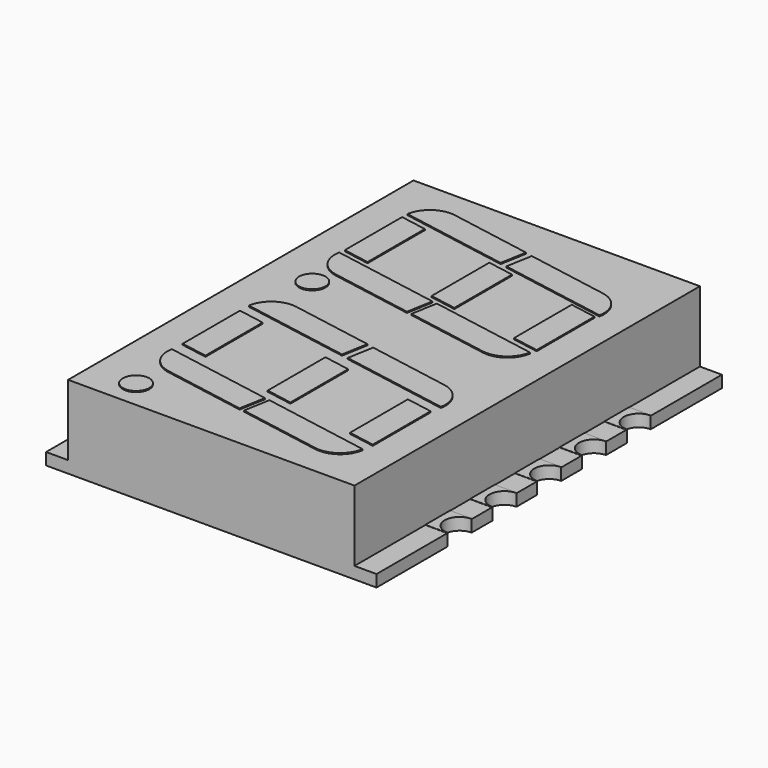
from build123d import *

# Parameters (mm, degrees)
BOX050_W               = 2
BOX050_H               = 2
BOX050_DEPTH           = 1
BOX050_PLACEMENT_ANGLE = -10
BOX049_W               = 2
BOX049_H               = 2
BOX049_DEPTH           = 1
BOX049_PLACEMENT_ANGLE = -10
BOX048_W               = 1.2
BOX048_H               = 3.5
BOX048_DEPTH           = 1
BOX040_W               = 2
BOX040_H               = 2
BOX040_DEPTH           = 1
BOX040_PLACEMENT_ANGLE = -10
BOX039_W               = 2
BOX039_H               = 2
BOX039_DEPTH           = 1
BOX039_PLACEMENT_ANGLE = -10
BOX038_W               = 1.2
BOX038_H               = 3.5
BOX038_DEPTH           = 1
BOX056_W               = 2
BOX056_H               = 2
BOX056_DEPTH           = 1
BOX056_PLACEMENT_ANGLE = -10
BOX055_W               = 2
BOX055_H               = 2
BOX055_DEPTH           = 1
BOX055_PLACEMENT_ANGLE = -10
BOX054_W               = 1.2
BOX054_H               = 3.5
BOX054_DEPTH           = 1
BOX052_W               = 2
BOX052_H               = 2
BOX052_DEPTH           = 1
BOX052_PLACEMENT_ANGLE = -10
BOX053_W               = 2
BOX053_H               = 2
BOX053_DEPTH           = 1
BOX053_PLACEMENT_ANGLE = -10
BOX051_W               = 1.2
BOX051_H               = 3.5
BOX051_DEPTH           = 1
BOX_W                  = 1
BOX_H                  = 20
BOX_DEPTH              = 3.28
BOX047_W               = 1
BOX047_H               = 20
BOX047_DEPTH           = 3.28
PAD_DEPTH              = 3.75
BOX032_W               = 0.8
BOX032_H               = 1.5
BOX032_DEPTH           = 0.6
CYLINDER019_R          = 0.68
CYLINDER019_DEPTH      = 0.6
CYLINDER018_R          = 0.7
CYLINDER018_DEPTH      = 0.5
BOX031_W               = 1
BOX031_H               = 1.4
BOX031_DEPTH           = 0.05
CUT019_PLACEMENT_ANGLE = 180
BOX043_W               = 2
BOX043_H               = 2
BOX043_DEPTH           = 1
BOX043_PLACEMENT_ANGLE = -10
BOX042_W               = 2
BOX042_H               = 2
BOX042_DEPTH           = 1
BOX042_PLACEMENT_ANGLE = -10
BOX041_W               = 1.2
BOX041_H               = 3.5
BOX041_DEPTH           = 1
BOX045_W               = 2
BOX045_H               = 2
BOX045_DEPTH           = 1
BOX045_PLACEMENT_ANGLE = -10
BOX046_W               = 2
BOX046_H               = 2
BOX046_DEPTH           = 1
BOX046_PLACEMENT_ANGLE = -10
BOX044_W               = 1.2
BOX044_H               = 3.5
BOX044_DEPTH           = 1
BOX030_W               = 0.8
BOX030_H               = 1.5
BOX030_DEPTH           = 0.6
CYLINDER017_R          = 0.68
CYLINDER017_DEPTH      = 0.6
CYLINDER016_R          = 0.7
CYLINDER016_DEPTH      = 0.5
BOX029_W               = 1
BOX029_H               = 1.4
BOX029_DEPTH           = 0.05
CUT017_PLACEMENT_ANGLE = 180
BOX057_W               = 5
BOX057_H               = 1.2
BOX057_DEPTH           = 1
BOX057_PLACEMENT_ANGLE = -10
FILLET004_R            = 1.18
BOX037_W               = 5
BOX037_H               = 1.2
BOX037_DEPTH           = 1
BOX037_PLACEMENT_ANGLE = -10
FILLET003_R            = 1.18
BOX058_W               = 5
BOX058_H               = 1.2
BOX058_DEPTH           = 1
BOX058_PLACEMENT_ANGLE = -10
FILLET005_R            = 1.18
BOX036_W               = 5
BOX036_H               = 1.2
BOX036_DEPTH           = 1
BOX036_PLACEMENT_ANGLE = -10
FILLET001_R            = 1.18
BOX034_W               = 5
BOX034_H               = 1.2
BOX034_DEPTH           = 1
BOX034_PLACEMENT_ANGLE = -10
FILLET002_R            = 1.18
BOX059_W               = 5
BOX059_H               = 1.2
BOX059_DEPTH           = 1
BOX059_PLACEMENT_ANGLE = -10
FILLET006_R            = 1.18
BOX060_W               = 5
BOX060_H               = 1.2
BOX060_DEPTH           = 1
BOX060_PLACEMENT_ANGLE = -10
FILLET007_R            = 1.18
BOX035_W               = 5
BOX035_H               = 1.2
BOX035_DEPTH           = 1
BOX035_PLACEMENT_ANGLE = -10
FILLET_R               = 1.18
BOX028_W               = 0.8
BOX028_H               = 1.5
BOX028_DEPTH           = 0.6
CYLINDER015_R          = 0.68
CYLINDER015_DEPTH      = 0.6
CYLINDER014_R          = 0.7
CYLINDER014_DEPTH      = 0.5
BOX027_W               = 1
BOX027_H               = 1.4
BOX027_DEPTH           = 0.05
CUT015_PLACEMENT_ANGLE = 180
BOX026_W               = 0.8
BOX026_H               = 1.5
BOX026_DEPTH           = 0.6
CYLINDER013_R          = 0.68
CYLINDER013_DEPTH      = 0.6
CYLINDER012_R          = 0.7
CYLINDER012_DEPTH      = 0.5
BOX025_W               = 1
BOX025_H               = 1.4
BOX025_DEPTH           = 0.05
CUT013_PLACEMENT_ANGLE = 180
BOX015_W               = 0.8
BOX015_H               = 1.5
BOX015_DEPTH           = 0.6
CYLINDER009_R          = 0.68
CYLINDER009_DEPTH      = 0.6
CYLINDER008_R          = 0.7
CYLINDER008_DEPTH      = 0.5
BOX014_W               = 1
BOX014_H               = 1.4
BOX014_DEPTH           = 0.05
BOX024_W               = 0.8
BOX024_H               = 1.5
BOX024_DEPTH           = 0.6
CYLINDER011_R          = 0.68
CYLINDER011_DEPTH      = 0.6
CYLINDER010_R          = 0.7
CYLINDER010_DEPTH      = 0.5
BOX023_W               = 1
BOX023_H               = 1.4
BOX023_DEPTH           = 0.05
CUT011_PLACEMENT_ANGLE = 180
CYLINDER020_R          = 0.6
CYLINDER020_DEPTH      = 1
BOX013_W               = 0.8
BOX013_H               = 1.5
BOX013_DEPTH           = 0.6
CYLINDER007_R          = 0.68
CYLINDER007_DEPTH      = 0.6
CYLINDER006_R          = 0.7
CYLINDER006_DEPTH      = 0.5
BOX012_W               = 1
BOX012_H               = 1.4
BOX012_DEPTH           = 0.05
BOX009_W               = 0.8
BOX009_H               = 1.5
BOX009_DEPTH           = 0.6
CYLINDER003_R          = 0.68
CYLINDER003_DEPTH      = 0.6
CYLINDER002_R          = 0.7
CYLINDER002_DEPTH      = 0.5
BOX008_W               = 1
BOX008_H               = 1.4
BOX008_DEPTH           = 0.05
BOX011_W               = 0.8
BOX011_H               = 1.5
BOX011_DEPTH           = 0.6
CYLINDER005_R          = 0.68
CYLINDER005_DEPTH      = 0.6
CYLINDER004_R          = 0.7
CYLINDER004_DEPTH      = 0.5
BOX010_W               = 1
BOX010_H               = 1.4
BOX010_DEPTH           = 0.05
CYLINDER021_R          = 0.6
CYLINDER021_DEPTH      = 1
BOX007_W               = 0.8
BOX007_H               = 1.5
BOX007_DEPTH           = 0.6
CYLINDER001_R          = 0.68
CYLINDER001_DEPTH      = 0.6
CYLINDER_R             = 0.7
CYLINDER_DEPTH         = 0.5
BOX006_W               = 1
BOX006_H               = 1.4
BOX006_DEPTH           = 0.05


with BuildPart() as kub051:
    # Box050 → Box050 (new body)
    with BuildSketch(Plane.XY):
        with Locations((1, 1)):
            Rectangle(BOX050_W, BOX050_H)
    extrude(amount=BOX050_DEPTH)


with BuildPart() as kub051_1:
    # Box050 placement: moved
    add(kub051.part.moved(Location((-1.62, -8.05, 3.3))).rotate(Axis((-1.62, -8.05, 3.3), (0, 0, 1)), BOX050_PLACEMENT_ANGLE))


with BuildPart() as kub050:
    # Box049 → Box049 (new body)
    with BuildSketch(Plane.XY):
        with Locations((1, 1)):
            Rectangle(BOX049_W, BOX049_H)
    extrude(amount=BOX049_DEPTH)


with BuildPart() as kub050_1:
    # Box049 placement: moved
    add(kub050.part.moved(Location((-0.7, -2.9, 3.3))).rotate(Axis((-0.7, -2.9, 3.3), (0, 0, 1)), BOX049_PLACEMENT_ANGLE))


with BuildPart() as cut038:
    # Box048 → Box048 (new body)
    with BuildSketch(Plane(origin=(-0.7, -6.4, 3.3), x_dir=(1, 0, 0), z_dir=(0, 0, 1))):
        with Locations((0.6, 1.75)):
            Rectangle(BOX048_W, BOX048_H)
    extrude(amount=BOX048_DEPTH)

    # Cut037: cut Kub050
    add(kub050_1.part, mode=Mode.SUBTRACT)

    # Cut038: cut Kub051
    add(kub051_1.part, mode=Mode.SUBTRACT)


with BuildPart() as cut038_1:
    # Cut038 placement: moved
    add(cut038.part.moved(Location((12.1, 3.6, -0.5))))


with BuildPart() as kub040:
    # Box040 → Box040 (new body)
    with BuildSketch(Plane.XY):
        with Locations((1, 1)):
            Rectangle(BOX040_W, BOX040_H)
    extrude(amount=BOX040_DEPTH)


with BuildPart() as kub040_1:
    # Box040 placement: moved
    add(kub040.part.moved(Location((-4.62, -8.02, 3.3))).rotate(Axis((-4.62, -8.02, 3.3), (0, 0, 1)), BOX040_PLACEMENT_ANGLE))


with BuildPart() as kub039:
    # Box039 → Box039 (new body)
    with BuildSketch(Plane.XY):
        with Locations((1, 1)):
            Rectangle(BOX039_W, BOX039_H)
    extrude(amount=BOX039_DEPTH)


with BuildPart() as kub039_1:
    # Box039 placement: moved
    add(kub039.part.moved(Location((-4, -2.85, 3.3))).rotate(Axis((-4, -2.85, 3.3), (0, 0, 1)), BOX039_PLACEMENT_ANGLE))


with BuildPart() as cut036:
    # Box038 → Box038 (new body)
    with BuildSketch(Plane(origin=(-3.7, -6.4, 3.3), x_dir=(1, 0, 0), z_dir=(0, 0, 1))):
        with Locations((0.6, 1.75)):
            Rectangle(BOX038_W, BOX038_H)
    extrude(amount=BOX038_DEPTH)

    # Cut035: cut Kub039
    add(kub039_1.part, mode=Mode.SUBTRACT)

    # Cut036: cut Kub040
    add(kub040_1.part, mode=Mode.SUBTRACT)


with BuildPart() as cut036_1:
    # Cut036 placement: moved
    add(cut036.part.moved(Location((6.2, -4.1, -0.5))))


with BuildPart() as kub057:
    # Box056 → Box056 (new body)
    with BuildSketch(Plane.XY):
        with Locations((1, 1)):
            Rectangle(BOX056_W, BOX056_H)
    extrude(amount=BOX056_DEPTH)


with BuildPart() as kub057_1:
    # Box056 placement: moved
    add(kub057.part.moved(Location((-4.62, -8.02, 3.3))).rotate(Axis((-4.62, -8.02, 3.3), (0, 0, 1)), BOX056_PLACEMENT_ANGLE))


with BuildPart() as kub056:
    # Box055 → Box055 (new body)
    with BuildSketch(Plane.XY):
        with Locations((1, 1)):
            Rectangle(BOX055_W, BOX055_H)
    extrude(amount=BOX055_DEPTH)


with BuildPart() as kub056_1:
    # Box055 placement: moved
    add(kub056.part.moved(Location((-4, -2.85, 3.3))).rotate(Axis((-4, -2.85, 3.3), (0, 0, 1)), BOX055_PLACEMENT_ANGLE))


with BuildPart() as cut042:
    # Box054 → Box054 (new body)
    with BuildSketch(Plane(origin=(-3.7, -6.4, 3.3), x_dir=(1, 0, 0), z_dir=(0, 0, 1))):
        with Locations((0.6, 1.75)):
            Rectangle(BOX054_W, BOX054_H)
    extrude(amount=BOX054_DEPTH)

    # Cut041: cut Kub056
    add(kub056_1.part, mode=Mode.SUBTRACT)

    # Cut042: cut Kub057
    add(kub057_1.part, mode=Mode.SUBTRACT)


with BuildPart() as cut042_1:
    # Cut042 placement: moved
    add(cut042.part.moved(Location((6.2, 5.1, -0.5))))


with BuildPart() as kub053:
    # Box052 → Box052 (new body)
    with BuildSketch(Plane.XY):
        with Locations((1, 1)):
            Rectangle(BOX052_W, BOX052_H)
    extrude(amount=BOX052_DEPTH)


with BuildPart() as kub053_1:
    # Box052 placement: moved
    add(kub053.part.moved(Location((-8, -2.85, 3.3))).rotate(Axis((-8, -2.85, 3.3), (0, 0, 1)), BOX052_PLACEMENT_ANGLE))


with BuildPart() as kub054:
    # Box053 → Box053 (new body)
    with BuildSketch(Plane.XY):
        with Locations((1, 1)):
            Rectangle(BOX053_W, BOX053_H)
    extrude(amount=BOX053_DEPTH)


with BuildPart() as kub054_1:
    # Box053 placement: moved
    add(kub054.part.moved(Location((-8.6, -8.05, 3.3))).rotate(Axis((-8.6, -8.05, 3.3), (0, 0, 1)), BOX053_PLACEMENT_ANGLE))


with BuildPart() as cut040:
    # Box051 → Box051 (new body)
    with BuildSketch(Plane(origin=(-7.7, -6.4, 3.3), x_dir=(1, 0, 0), z_dir=(0, 0, 1))):
        with Locations((0.6, 1.75)):
            Rectangle(BOX051_W, BOX051_H)
    extrude(amount=BOX051_DEPTH)

    # Cut039: cut Kub054
    add(kub054_1.part, mode=Mode.SUBTRACT)

    # Cut040: cut Kub053
    add(kub053_1.part, mode=Mode.SUBTRACT)


with BuildPart() as cut040_1:
    # Cut040 placement: moved
    add(cut040.part.moved(Location((14.8, 4.3, -0.5))))


with BuildPart() as kub047:
    # Box → Box (new body)
    with BuildSketch(Plane(origin=(0, -15, 0.54), x_dir=(1, 0, 0), z_dir=(0, 0, 1))):
        with Locations((0.5, 10)):
            Rectangle(BOX_W, BOX_H)
    extrude(amount=BOX_DEPTH)


with BuildPart() as kub048:
    # Box047 → Box047 (new body)
    with BuildSketch(Plane(origin=(14, -15, 0.54), x_dir=(1, 0, 0), z_dir=(0, 0, 1))):
        with Locations((0.5, 10)):
            Rectangle(BOX047_W, BOX047_H)
    extrude(amount=BOX047_DEPTH)


with BuildPart() as cut026:
    # Sketch → Pad (new body)
    with BuildSketch(Plane.XY):
        with BuildLine():
            Line((0, 4.72), (15, 4.72))
            Line((15, 4.72), (15, 0.7))
            ThreePointArc((15, 0.7), (14.3, 0), (15, -0.7))
            Line((15, -0.7), (15, -1.84))
            ThreePointArc((15, -1.84), (14.3, -2.54), (15, -3.24))
            Line((15, -3.24), (15, -4.38))
            ThreePointArc((15, -4.38), (14.3, -5.08), (15, -5.78))
            Line((15, -5.78), (15, -6.92))
            ThreePointArc((15, -6.92), (14.3, -7.62), (15, -8.32))
            Line((15, -8.32), (15, -9.46))
            ThreePointArc((15, -9.46), (14.3, -10.16), (15, -10.86))
            Line((15, -10.86), (15, -14.88))
            Line((0, -14.88), (15, -14.88))
            Line((0, -10.86), (0, -14.88))
            ThreePointArc((0, -10.86), (0.7, -10.16), (0, -9.46))
            Line((0, -8.32), (0, -9.46))
            ThreePointArc((0, -8.32), (0.7, -7.62), (0, -6.92))
            Line((0, -5.78), (0, -6.92))
            ThreePointArc((0, -5.78), (0.7, -5.08), (0, -4.38))
            Line((0, -3.24), (0, -4.38))
            ThreePointArc((0, -3.24), (0.7, -2.54), (0, -1.84))
            Line((0, -0.7), (0, -1.84))
            ThreePointArc((0, -0.7), (0.7, 0), (0, 0.7))
            Line((0, 4.72), (0, 0.7))
        make_face()
    extrude(amount=PAD_DEPTH)

    # Cut025: cut Kub048
    add(kub048.part, mode=Mode.SUBTRACT)

    # Cut026: cut Kub047
    add(kub047.part, mode=Mode.SUBTRACT)


with BuildPart() as kub032:
    # Box032 → Box032 (new body)
    with BuildSketch(Plane(origin=(-0.8, -0.75, 0), x_dir=(1, 0, 0), z_dir=(0, 0, 1))):
        with Locations((0.4, 0.75)):
            Rectangle(BOX032_W, BOX032_H)
    extrude(amount=BOX032_DEPTH)


with BuildPart() as cylinder019:
    # Cylinder019 → Cylinder019 (new body)
    with BuildSketch(Plane.XY):
        Circle(CYLINDER019_R)
    extrude(amount=CYLINDER019_DEPTH)


with BuildPart() as cylinder018:
    # Cylinder018 → Cylinder018 (new body)
    with BuildSketch(Plane.XY):
        Circle(CYLINDER018_R)
    extrude(amount=CYLINDER018_DEPTH)


with BuildPart() as cut019:
    # Box031 → Box031 (new body)
    with BuildSketch(Plane(origin=(0, -0.7, 0.5), x_dir=(1, 0, 0), z_dir=(0, 0, 1))):
        with Locations((0.5, 0.7)):
            Rectangle(BOX031_W, BOX031_H)
    extrude(amount=BOX031_DEPTH)

    # Fusion009: union Cylinder018
    add(cylinder018.part)

    # Cut018: cut Cylinder019
    add(cylinder019.part, mode=Mode.SUBTRACT)

    # Cut019: cut Kub032
    add(kub032.part, mode=Mode.SUBTRACT)


with BuildPart() as cut019_1:
    # Cut019 placement: moved
    add(cut019.part.moved(Location((15, -10.16, 0))).rotate(Axis((15, -10.16, 0), (0, 0, 1)), CUT019_PLACEMENT_ANGLE))


with BuildPart() as kub043:
    # Box043 → Box043 (new body)
    with BuildSketch(Plane.XY):
        with Locations((1, 1)):
            Rectangle(BOX043_W, BOX043_H)
    extrude(amount=BOX043_DEPTH)


with BuildPart() as kub043_1:
    # Box043 placement: moved
    add(kub043.part.moved(Location((-1.62, -8.05, 3.3))).rotate(Axis((-1.62, -8.05, 3.3), (0, 0, 1)), BOX043_PLACEMENT_ANGLE))


with BuildPart() as kub042:
    # Box042 → Box042 (new body)
    with BuildSketch(Plane.XY):
        with Locations((1, 1)):
            Rectangle(BOX042_W, BOX042_H)
    extrude(amount=BOX042_DEPTH)


with BuildPart() as kub042_1:
    # Box042 placement: moved
    add(kub042.part.moved(Location((-0.7, -2.9, 3.3))).rotate(Axis((-0.7, -2.9, 3.3), (0, 0, 1)), BOX042_PLACEMENT_ANGLE))


with BuildPart() as cut032:
    # Box041 → Box041 (new body)
    with BuildSketch(Plane(origin=(-0.7, -6.4, 3.3), x_dir=(1, 0, 0), z_dir=(0, 0, 1))):
        with Locations((0.6, 1.75)):
            Rectangle(BOX041_W, BOX041_H)
    extrude(amount=BOX041_DEPTH)

    # Cut031: cut Kub042
    add(kub042_1.part, mode=Mode.SUBTRACT)

    # Cut032: cut Kub043
    add(kub043_1.part, mode=Mode.SUBTRACT)


with BuildPart() as cut032_1:
    # Cut032 placement: moved
    add(cut032.part.moved(Location((12.1, -5.7, -0.5))))


with BuildPart() as kub045:
    # Box045 → Box045 (new body)
    with BuildSketch(Plane.XY):
        with Locations((1, 1)):
            Rectangle(BOX045_W, BOX045_H)
    extrude(amount=BOX045_DEPTH)


with BuildPart() as kub045_1:
    # Box045 placement: moved
    add(kub045.part.moved(Location((-8, -2.85, 3.3))).rotate(Axis((-8, -2.85, 3.3), (0, 0, 1)), BOX045_PLACEMENT_ANGLE))


with BuildPart() as kub046:
    # Box046 → Box046 (new body)
    with BuildSketch(Plane.XY):
        with Locations((1, 1)):
            Rectangle(BOX046_W, BOX046_H)
    extrude(amount=BOX046_DEPTH)


with BuildPart() as kub046_1:
    # Box046 placement: moved
    add(kub046.part.moved(Location((-8.6, -8.05, 3.3))).rotate(Axis((-8.6, -8.05, 3.3), (0, 0, 1)), BOX046_PLACEMENT_ANGLE))


with BuildPart() as cut034:
    # Box044 → Box044 (new body)
    with BuildSketch(Plane(origin=(-7.7, -6.4, 3.3), x_dir=(1, 0, 0), z_dir=(0, 0, 1))):
        with Locations((0.6, 1.75)):
            Rectangle(BOX044_W, BOX044_H)
    extrude(amount=BOX044_DEPTH)

    # Cut033: cut Kub046
    add(kub046_1.part, mode=Mode.SUBTRACT)

    # Cut034: cut Kub045
    add(kub045_1.part, mode=Mode.SUBTRACT)


with BuildPart() as cut034_1:
    # Cut034 placement: moved
    add(cut034.part.moved(Location((14.8, -5, -0.5))))


with BuildPart() as kub030:
    # Box030 → Box030 (new body)
    with BuildSketch(Plane(origin=(-0.8, -0.75, 0), x_dir=(1, 0, 0), z_dir=(0, 0, 1))):
        with Locations((0.4, 0.75)):
            Rectangle(BOX030_W, BOX030_H)
    extrude(amount=BOX030_DEPTH)


with BuildPart() as cylinder017:
    # Cylinder017 → Cylinder017 (new body)
    with BuildSketch(Plane.XY):
        Circle(CYLINDER017_R)
    extrude(amount=CYLINDER017_DEPTH)


with BuildPart() as cylinder016:
    # Cylinder016 → Cylinder016 (new body)
    with BuildSketch(Plane.XY):
        Circle(CYLINDER016_R)
    extrude(amount=CYLINDER016_DEPTH)


with BuildPart() as cut017:
    # Box029 → Box029 (new body)
    with BuildSketch(Plane(origin=(0, -0.7, 0.5), x_dir=(1, 0, 0), z_dir=(0, 0, 1))):
        with Locations((0.5, 0.7)):
            Rectangle(BOX029_W, BOX029_H)
    extrude(amount=BOX029_DEPTH)

    # Fusion008: union Cylinder016
    add(cylinder016.part)

    # Cut016: cut Cylinder017
    add(cylinder017.part, mode=Mode.SUBTRACT)

    # Cut017: cut Kub030
    add(kub030.part, mode=Mode.SUBTRACT)


with BuildPart() as cut017_1:
    # Cut017 placement: moved
    add(cut017.part.moved(Location((15, -7.62, 0))).rotate(Axis((15, -7.62, 0), (0, 0, 1)), CUT017_PLACEMENT_ANGLE))


with BuildPart() as fillet004:
    # Box057 → Box057 (new body)
    with BuildSketch(Plane.XY):
        with Locations((2.5, 0.6)):
            Rectangle(BOX057_W, BOX057_H)
    extrude(amount=BOX057_DEPTH)


with BuildPart() as fillet004_1:
    # Box057 placement: moved
    add(fillet004.part.moved(Location((7.75, -7.45, 2.8))).rotate(Axis((7.75, -7.45, 2.8), (0, 0, 1)), BOX057_PLACEMENT_ANGLE))

    # Fillet004
    fillet004_edges = [fillet004_1.edges().sort_by_distance(p)[0] for p in [
        (12.882417, -7.136472, 3.3),
    ]]
    fillet(fillet004_edges, radius=FILLET004_R)


with BuildPart() as fillet004_2:
    # Fillet004 placement: moved
    add(fillet004_1.part.moved(Location((0, 9, 0))))


with BuildPart() as fillet003:
    # Box037 → Box037 (new body)
    with BuildSketch(Plane.XY):
        with Locations((2.5, 0.6)):
            Rectangle(BOX037_W, BOX037_H)
    extrude(amount=BOX037_DEPTH)


with BuildPart() as fillet003_1:
    # Box037 placement: moved
    add(fillet003.part.moved(Location((7.4, -12.9, 2.8))).rotate(Axis((7.4, -12.9, 2.8), (0, 0, 1)), BOX037_PLACEMENT_ANGLE))

    # Fillet003
    fillet003_edges = [fillet003_1.edges().sort_by_distance(p)[0] for p in [
        (12.324039, -13.768241, 3.3),
    ]]
    fillet(fillet003_edges, radius=FILLET003_R)


with BuildPart() as fillet005:
    # Box058 → Box058 (new body)
    with BuildSketch(Plane.XY):
        with Locations((2.5, 0.6)):
            Rectangle(BOX058_W, BOX058_H)
    extrude(amount=BOX058_DEPTH)


with BuildPart() as fillet005_1:
    # Box058 placement: moved
    add(fillet005.part.moved(Location((7.4, -12.9, 2.8))).rotate(Axis((7.4, -12.9, 2.8), (0, 0, 1)), BOX058_PLACEMENT_ANGLE))

    # Fillet005
    fillet005_edges = [fillet005_1.edges().sort_by_distance(p)[0] for p in [
        (12.324039, -13.768241, 3.3),
    ]]
    fillet(fillet005_edges, radius=FILLET005_R)


with BuildPart() as fillet005_2:
    # Fillet005 placement: moved
    add(fillet005_1.part.moved(Location((0, 9.5, 0))))


with BuildPart() as fillet001:
    # Box036 → Box036 (new body)
    with BuildSketch(Plane.XY):
        with Locations((2.5, 0.6)):
            Rectangle(BOX036_W, BOX036_H)
    extrude(amount=BOX036_DEPTH)


with BuildPart() as fillet001_1:
    # Box036 placement: moved
    add(fillet001.part.moved(Location((2.3, -12, 2.8))).rotate(Axis((2.3, -12, 2.8), (0, 0, 1)), BOX036_PLACEMENT_ANGLE))

    # Fillet001
    fillet001_edges = [fillet001_1.edges().sort_by_distance(p)[0] for p in [
        (2.3, -12, 3.3),
    ]]
    fillet(fillet001_edges, radius=FILLET001_R)


with BuildPart() as fillet001_2:
    # Fillet001 placement: moved
    add(fillet001_1.part.moved(Location((-0.05, 0, 0))))


with BuildPart() as fillet002:
    # Box034 → Box034 (new body)
    with BuildSketch(Plane.XY):
        with Locations((2.5, 0.6)):
            Rectangle(BOX034_W, BOX034_H)
    extrude(amount=BOX034_DEPTH)


with BuildPart() as fillet002_1:
    # Box034 placement: moved
    add(fillet002.part.moved(Location((2.5, -6.5, 2.8))).rotate(Axis((2.5, -6.5, 2.8), (0, 0, 1)), BOX034_PLACEMENT_ANGLE))

    # Fillet002
    fillet002_edges = [fillet002_1.edges().sort_by_distance(p)[0] for p in [
        (2.708378, -5.318231, 3.3),
    ]]
    fillet(fillet002_edges, radius=FILLET002_R)


with BuildPart() as fillet006:
    # Box059 → Box059 (new body)
    with BuildSketch(Plane.XY):
        with Locations((2.5, 0.6)):
            Rectangle(BOX059_W, BOX059_H)
    extrude(amount=BOX059_DEPTH)


with BuildPart() as fillet006_1:
    # Box059 placement: moved
    add(fillet006.part.moved(Location((2.3, -12, 2.8))).rotate(Axis((2.3, -12, 2.8), (0, 0, 1)), BOX059_PLACEMENT_ANGLE))

    # Fillet006
    fillet006_edges = [fillet006_1.edges().sort_by_distance(p)[0] for p in [
        (2.3, -12, 3.3),
    ]]
    fillet(fillet006_edges, radius=FILLET006_R)


with BuildPart() as fillet006_2:
    # Fillet006 placement: moved
    add(fillet006_1.part.moved(Location((-0.05, 9.5, 0))))


with BuildPart() as fillet007:
    # Box060 → Box060 (new body)
    with BuildSketch(Plane.XY):
        with Locations((2.5, 0.6)):
            Rectangle(BOX060_W, BOX060_H)
    extrude(amount=BOX060_DEPTH)


with BuildPart() as fillet007_1:
    # Box060 placement: moved
    add(fillet007.part.moved(Location((2.5, -6.5, 2.8))).rotate(Axis((2.5, -6.5, 2.8), (0, 0, 1)), BOX060_PLACEMENT_ANGLE))

    # Fillet007
    fillet007_edges = [fillet007_1.edges().sort_by_distance(p)[0] for p in [
        (2.708378, -5.318231, 3.3),
    ]]
    fillet(fillet007_edges, radius=FILLET007_R)


with BuildPart() as fillet007_2:
    # Fillet007 placement: moved
    add(fillet007_1.part.moved(Location((0, 9, 0))))


with BuildPart() as fillet_body:
    # Box035 → Box035 (new body)
    with BuildSketch(Plane.XY):
        with Locations((2.5, 0.6)):
            Rectangle(BOX035_W, BOX035_H)
    extrude(amount=BOX035_DEPTH)


with BuildPart() as fillet_body_1:
    # Box035 placement: moved
    add(fillet_body.part.moved(Location((7.75, -7.45, 2.8))).rotate(Axis((7.75, -7.45, 2.8), (0, 0, 1)), BOX035_PLACEMENT_ANGLE))

    # Fillet
    fillet_edges = [fillet_body_1.edges().sort_by_distance(p)[0] for p in [
        (12.882417, -7.136472, 3.3),
    ]]
    fillet(fillet_edges, radius=FILLET_R)


with BuildPart() as kub028:
    # Box028 → Box028 (new body)
    with BuildSketch(Plane(origin=(-0.8, -0.75, 0), x_dir=(1, 0, 0), z_dir=(0, 0, 1))):
        with Locations((0.4, 0.75)):
            Rectangle(BOX028_W, BOX028_H)
    extrude(amount=BOX028_DEPTH)


with BuildPart() as cylinder015:
    # Cylinder015 → Cylinder015 (new body)
    with BuildSketch(Plane.XY):
        Circle(CYLINDER015_R)
    extrude(amount=CYLINDER015_DEPTH)


with BuildPart() as cylinder014:
    # Cylinder014 → Cylinder014 (new body)
    with BuildSketch(Plane.XY):
        Circle(CYLINDER014_R)
    extrude(amount=CYLINDER014_DEPTH)


with BuildPart() as cut015:
    # Box027 → Box027 (new body)
    with BuildSketch(Plane(origin=(0, -0.7, 0.5), x_dir=(1, 0, 0), z_dir=(0, 0, 1))):
        with Locations((0.5, 0.7)):
            Rectangle(BOX027_W, BOX027_H)
    extrude(amount=BOX027_DEPTH)

    # Fusion007: union Cylinder014
    add(cylinder014.part)

    # Cut014: cut Cylinder015
    add(cylinder015.part, mode=Mode.SUBTRACT)

    # Cut015: cut Kub028
    add(kub028.part, mode=Mode.SUBTRACT)


with BuildPart() as cut015_1:
    # Cut015 placement: moved
    add(cut015.part.moved(Location((15, -5.08, 0))).rotate(Axis((15, -5.08, 0), (0, 0, 1)), CUT015_PLACEMENT_ANGLE))


with BuildPart() as kub026:
    # Box026 → Box026 (new body)
    with BuildSketch(Plane(origin=(-0.8, -0.75, 0), x_dir=(1, 0, 0), z_dir=(0, 0, 1))):
        with Locations((0.4, 0.75)):
            Rectangle(BOX026_W, BOX026_H)
    extrude(amount=BOX026_DEPTH)


with BuildPart() as cylinder013:
    # Cylinder013 → Cylinder013 (new body)
    with BuildSketch(Plane.XY):
        Circle(CYLINDER013_R)
    extrude(amount=CYLINDER013_DEPTH)


with BuildPart() as cylinder012:
    # Cylinder012 → Cylinder012 (new body)
    with BuildSketch(Plane.XY):
        Circle(CYLINDER012_R)
    extrude(amount=CYLINDER012_DEPTH)


with BuildPart() as cut013:
    # Box025 → Box025 (new body)
    with BuildSketch(Plane(origin=(0, -0.7, 0.5), x_dir=(1, 0, 0), z_dir=(0, 0, 1))):
        with Locations((0.5, 0.7)):
            Rectangle(BOX025_W, BOX025_H)
    extrude(amount=BOX025_DEPTH)

    # Fusion006: union Cylinder012
    add(cylinder012.part)

    # Cut012: cut Cylinder013
    add(cylinder013.part, mode=Mode.SUBTRACT)

    # Cut013: cut Kub026
    add(kub026.part, mode=Mode.SUBTRACT)


with BuildPart() as cut013_1:
    # Cut013 placement: moved
    add(cut013.part.moved(Location((15, -2.54, 0))).rotate(Axis((15, -2.54, 0), (0, 0, 1)), CUT013_PLACEMENT_ANGLE))


with BuildPart() as kub015:
    # Box015 → Box015 (new body)
    with BuildSketch(Plane(origin=(-0.8, -0.75, 0), x_dir=(1, 0, 0), z_dir=(0, 0, 1))):
        with Locations((0.4, 0.75)):
            Rectangle(BOX015_W, BOX015_H)
    extrude(amount=BOX015_DEPTH)


with BuildPart() as cylinder009:
    # Cylinder009 → Cylinder009 (new body)
    with BuildSketch(Plane.XY):
        Circle(CYLINDER009_R)
    extrude(amount=CYLINDER009_DEPTH)


with BuildPart() as cylinder008:
    # Cylinder008 → Cylinder008 (new body)
    with BuildSketch(Plane.XY):
        Circle(CYLINDER008_R)
    extrude(amount=CYLINDER008_DEPTH)


with BuildPart() as cut009:
    # Box014 → Box014 (new body)
    with BuildSketch(Plane(origin=(0, -0.7, 0.5), x_dir=(1, 0, 0), z_dir=(0, 0, 1))):
        with Locations((0.5, 0.7)):
            Rectangle(BOX014_W, BOX014_H)
    extrude(amount=BOX014_DEPTH)

    # Fusion004: union Cylinder008
    add(cylinder008.part)

    # Cut008: cut Cylinder009
    add(cylinder009.part, mode=Mode.SUBTRACT)

    # Cut009: cut Kub015
    add(kub015.part, mode=Mode.SUBTRACT)


with BuildPart() as cut009_1:
    # Cut009 placement: moved
    add(cut009.part.moved(Location((0, -10.16, 0))))


with BuildPart() as kub024:
    # Box024 → Box024 (new body)
    with BuildSketch(Plane(origin=(-0.8, -0.75, 0), x_dir=(1, 0, 0), z_dir=(0, 0, 1))):
        with Locations((0.4, 0.75)):
            Rectangle(BOX024_W, BOX024_H)
    extrude(amount=BOX024_DEPTH)


with BuildPart() as cylinder011:
    # Cylinder011 → Cylinder011 (new body)
    with BuildSketch(Plane.XY):
        Circle(CYLINDER011_R)
    extrude(amount=CYLINDER011_DEPTH)


with BuildPart() as cylinder010:
    # Cylinder010 → Cylinder010 (new body)
    with BuildSketch(Plane.XY):
        Circle(CYLINDER010_R)
    extrude(amount=CYLINDER010_DEPTH)


with BuildPart() as cut011:
    # Box023 → Box023 (new body)
    with BuildSketch(Plane(origin=(0, -0.7, 0.5), x_dir=(1, 0, 0), z_dir=(0, 0, 1))):
        with Locations((0.5, 0.7)):
            Rectangle(BOX023_W, BOX023_H)
    extrude(amount=BOX023_DEPTH)

    # Fusion005: union Cylinder010
    add(cylinder010.part)

    # Cut010: cut Cylinder011
    add(cylinder011.part, mode=Mode.SUBTRACT)

    # Cut011: cut Kub024
    add(kub024.part, mode=Mode.SUBTRACT)


with BuildPart() as cut011_1:
    # Cut011 placement: moved
    add(cut011.part.moved(Location((15, 0, 0))).rotate(Axis((15, 0, 0), (0, 0, 1)), CUT011_PLACEMENT_ANGLE))


with BuildPart() as cylinder020:
    # Cylinder020 → Cylinder020 (new body)
    with BuildSketch(Plane(origin=(3.1, -13.65, 2.8), x_dir=(1, 0, 0), z_dir=(0, 0, 1))):
        Circle(CYLINDER020_R)
    extrude(amount=CYLINDER020_DEPTH)


with BuildPart() as kub013:
    # Box013 → Box013 (new body)
    with BuildSketch(Plane(origin=(-0.8, -0.75, 0), x_dir=(1, 0, 0), z_dir=(0, 0, 1))):
        with Locations((0.4, 0.75)):
            Rectangle(BOX013_W, BOX013_H)
    extrude(amount=BOX013_DEPTH)


with BuildPart() as cylinder007:
    # Cylinder007 → Cylinder007 (new body)
    with BuildSketch(Plane.XY):
        Circle(CYLINDER007_R)
    extrude(amount=CYLINDER007_DEPTH)


with BuildPart() as cylinder006:
    # Cylinder006 → Cylinder006 (new body)
    with BuildSketch(Plane.XY):
        Circle(CYLINDER006_R)
    extrude(amount=CYLINDER006_DEPTH)


with BuildPart() as cut007:
    # Box012 → Box012 (new body)
    with BuildSketch(Plane(origin=(0, -0.7, 0.5), x_dir=(1, 0, 0), z_dir=(0, 0, 1))):
        with Locations((0.5, 0.7)):
            Rectangle(BOX012_W, BOX012_H)
    extrude(amount=BOX012_DEPTH)

    # Fusion003: union Cylinder006
    add(cylinder006.part)

    # Cut006: cut Cylinder007
    add(cylinder007.part, mode=Mode.SUBTRACT)

    # Cut007: cut Kub013
    add(kub013.part, mode=Mode.SUBTRACT)


with BuildPart() as cut007_1:
    # Cut007 placement: moved
    add(cut007.part.moved(Location((0, -7.62, 0))))


with BuildPart() as kub009:
    # Box009 → Box009 (new body)
    with BuildSketch(Plane(origin=(-0.8, -0.75, 0), x_dir=(1, 0, 0), z_dir=(0, 0, 1))):
        with Locations((0.4, 0.75)):
            Rectangle(BOX009_W, BOX009_H)
    extrude(amount=BOX009_DEPTH)


with BuildPart() as cylinder003:
    # Cylinder003 → Cylinder003 (new body)
    with BuildSketch(Plane.XY):
        Circle(CYLINDER003_R)
    extrude(amount=CYLINDER003_DEPTH)


with BuildPart() as cylinder002:
    # Cylinder002 → Cylinder002 (new body)
    with BuildSketch(Plane.XY):
        Circle(CYLINDER002_R)
    extrude(amount=CYLINDER002_DEPTH)


with BuildPart() as cut003:
    # Box008 → Box008 (new body)
    with BuildSketch(Plane(origin=(0, -0.7, 0.5), x_dir=(1, 0, 0), z_dir=(0, 0, 1))):
        with Locations((0.5, 0.7)):
            Rectangle(BOX008_W, BOX008_H)
    extrude(amount=BOX008_DEPTH)

    # Fusion001: union Cylinder002
    add(cylinder002.part)

    # Cut002: cut Cylinder003
    add(cylinder003.part, mode=Mode.SUBTRACT)

    # Cut003: cut Kub009
    add(kub009.part, mode=Mode.SUBTRACT)


with BuildPart() as cut003_1:
    # Cut003 placement: moved
    add(cut003.part.moved(Location((0, -2.54, 0))))


with BuildPart() as kub011:
    # Box011 → Box011 (new body)
    with BuildSketch(Plane(origin=(-0.8, -0.75, 0), x_dir=(1, 0, 0), z_dir=(0, 0, 1))):
        with Locations((0.4, 0.75)):
            Rectangle(BOX011_W, BOX011_H)
    extrude(amount=BOX011_DEPTH)


with BuildPart() as cylinder005:
    # Cylinder005 → Cylinder005 (new body)
    with BuildSketch(Plane.XY):
        Circle(CYLINDER005_R)
    extrude(amount=CYLINDER005_DEPTH)


with BuildPart() as cylinder004:
    # Cylinder004 → Cylinder004 (new body)
    with BuildSketch(Plane.XY):
        Circle(CYLINDER004_R)
    extrude(amount=CYLINDER004_DEPTH)


with BuildPart() as cut005:
    # Box010 → Box010 (new body)
    with BuildSketch(Plane(origin=(0, -0.7, 0.5), x_dir=(1, 0, 0), z_dir=(0, 0, 1))):
        with Locations((0.5, 0.7)):
            Rectangle(BOX010_W, BOX010_H)
    extrude(amount=BOX010_DEPTH)

    # Fusion002: union Cylinder004
    add(cylinder004.part)

    # Cut004: cut Cylinder005
    add(cylinder005.part, mode=Mode.SUBTRACT)

    # Cut005: cut Kub011
    add(kub011.part, mode=Mode.SUBTRACT)


with BuildPart() as cut005_1:
    # Cut005 placement: moved
    add(cut005.part.moved(Location((0, -5.08, 0))))


with BuildPart() as cylinder021:
    # Cylinder021 → Cylinder021 (new body)
    with BuildSketch(Plane(origin=(3.1, -3.65, 2.8), x_dir=(1, 0, 0), z_dir=(0, 0, 1))):
        Circle(CYLINDER021_R)
    extrude(amount=CYLINDER021_DEPTH)


with BuildPart() as kub007:
    # Box007 → Box007 (new body)
    with BuildSketch(Plane(origin=(-0.8, -0.75, 0), x_dir=(1, 0, 0), z_dir=(0, 0, 1))):
        with Locations((0.4, 0.75)):
            Rectangle(BOX007_W, BOX007_H)
    extrude(amount=BOX007_DEPTH)


with BuildPart() as cylinder001:
    # Cylinder001 → Cylinder001 (new body)
    with BuildSketch(Plane.XY):
        Circle(CYLINDER001_R)
    extrude(amount=CYLINDER001_DEPTH)


with BuildPart() as cylinder:
    # Cylinder → Cylinder (new body)
    with BuildSketch(Plane.XY):
        Circle(CYLINDER_R)
    extrude(amount=CYLINDER_DEPTH)


with BuildPart() as fusion010:
    # Box006 → Box006 (new body)
    with BuildSketch(Plane(origin=(0, -0.7, 0.5), x_dir=(1, 0, 0), z_dir=(0, 0, 1))):
        with Locations((0.5, 0.7)):
            Rectangle(BOX006_W, BOX006_H)
    extrude(amount=BOX006_DEPTH)

    # Fusion: union Cylinder
    add(cylinder.part)

    # Cut: cut Cylinder001
    add(cylinder001.part, mode=Mode.SUBTRACT)

    # Cut001: cut Kub007
    add(kub007.part, mode=Mode.SUBTRACT)

    # Fusion010: union Cut038, Cut036, Cut042, Cut040, Cut026, Cut019, Cut032, Cut034, Cut017, Fillet004, Fillet003, Fillet005, Fillet001, Fillet002, Fillet006, Fillet007, Fillet body, Cut015, Cut013, Cut009, Cut011, Cylinder020, Cut007, Cut003, Cut005, Cylinder021
    add(cut038_1.part)
    add(cut036_1.part)
    add(cut042_1.part)
    add(cut040_1.part)
    add(cut026.part)
    add(cut019_1.part)
    add(cut032_1.part)
    add(cut034_1.part)
    add(cut017_1.part)
    add(fillet004_2.part)
    add(fillet003_1.part)
    add(fillet005_2.part)
    add(fillet001_2.part)
    add(fillet002_1.part)
    add(fillet006_2.part)
    add(fillet007_2.part)
    add(fillet_body_1.part)
    add(cut015_1.part)
    add(cut013_1.part)
    add(cut009_1.part)
    add(cut011_1.part)
    add(cylinder020.part)
    add(cut007_1.part)
    add(cut003_1.part)
    add(cut005_1.part)
    add(cylinder021.part)


with BuildPart() as fusion010_1:
    # Fusion010 placement: moved
    add(fusion010.part.moved(Location((-7.5, 5.08, 0))))


solid = fusion010_1.part
